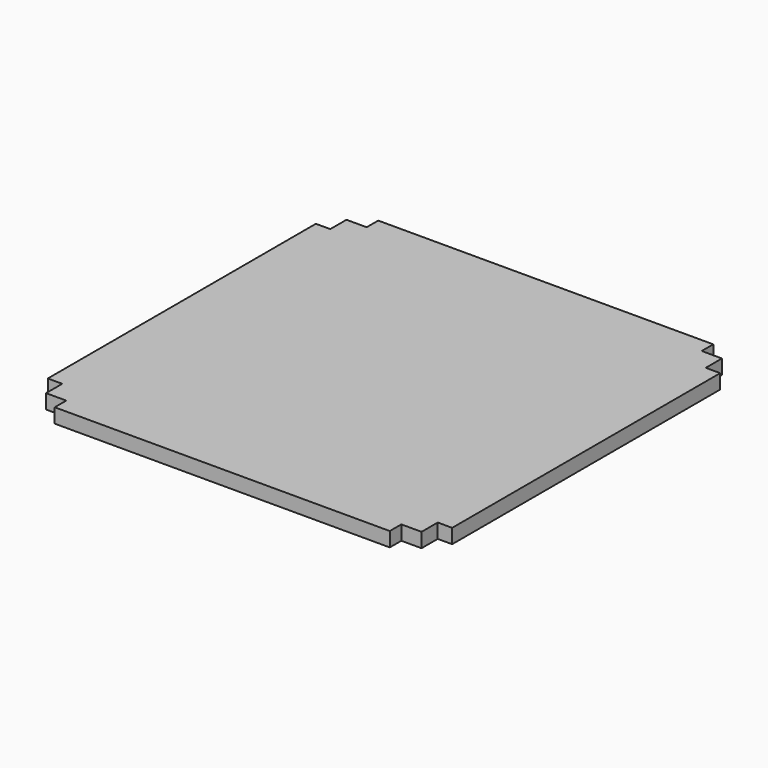
from build123d import *

# Parameters (mm, degrees)
F0_W     = 140
F0_H     = 140
F1_DEPTH = 5
F3_DEPTH = 5.001


with BuildPart() as f1:
    # F0 (on Top) → F1 (new body)
    with BuildSketch(Plane.XY):
        Rectangle(F0_W, F0_H)
    extrude(amount=F1_DEPTH)

    # F2 (on face) → F3 (cut, through all)
    with BuildSketch(Plane.XY.offset(5)):
        Polygon((-70, 70), (-70, 58), (-65, 58), (-65, 65), (-58, 65), (-58, 70), align=None)
        Polygon((70, 70), (58, 70), (58, 65), (65, 65), (65, 58), (70, 58), align=None)
        Polygon((58, -65), (58, -70), (70, -70), (70, -58), (65, -58), (65, -65), align=None)
        Polygon((-65, -58), (-70, -58), (-70, -70), (-58, -70), (-58, -65), (-65, -65), align=None)
    extrude(amount=-F3_DEPTH, mode=Mode.SUBTRACT)


solid = f1.part
